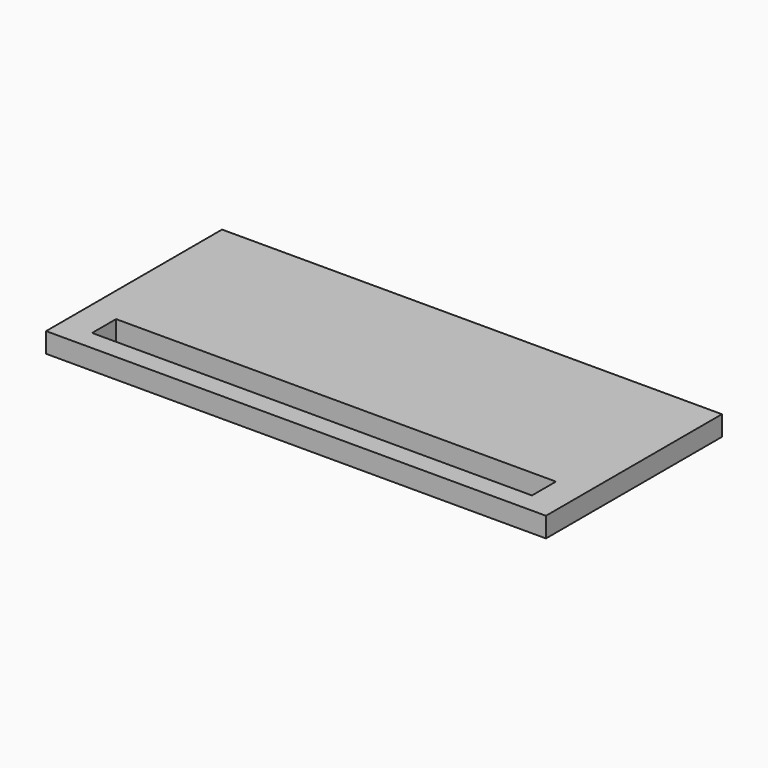
from build123d import *

# Parameters (mm, degrees)
BOX126_W     = 22
BOX126_H     = 1.5
BOX126_DEPTH = 2
BOX125_W     = 25
BOX125_H     = 11
BOX125_DEPTH = 1


with BuildPart() as longledhole003:
    # Box126 → Box126 (new body)
    with BuildSketch(Plane(origin=(1.5, 1, 0), x_dir=(1, 0, 0), z_dir=(0, 0, 1))):
        with Locations((11, 0.75)):
            Rectangle(BOX126_W, BOX126_H)
    extrude(amount=BOX126_DEPTH)


with BuildPart() as cut020:
    # Box125 → Box125 (new body)
    with BuildSketch(Plane.XY):
        with Locations((12.5, 5.5)):
            Rectangle(BOX125_W, BOX125_H)
    extrude(amount=BOX125_DEPTH)

    # Cut020: cut LongLedHole003
    add(longledhole003.part, mode=Mode.SUBTRACT)


solid = cut020.part
